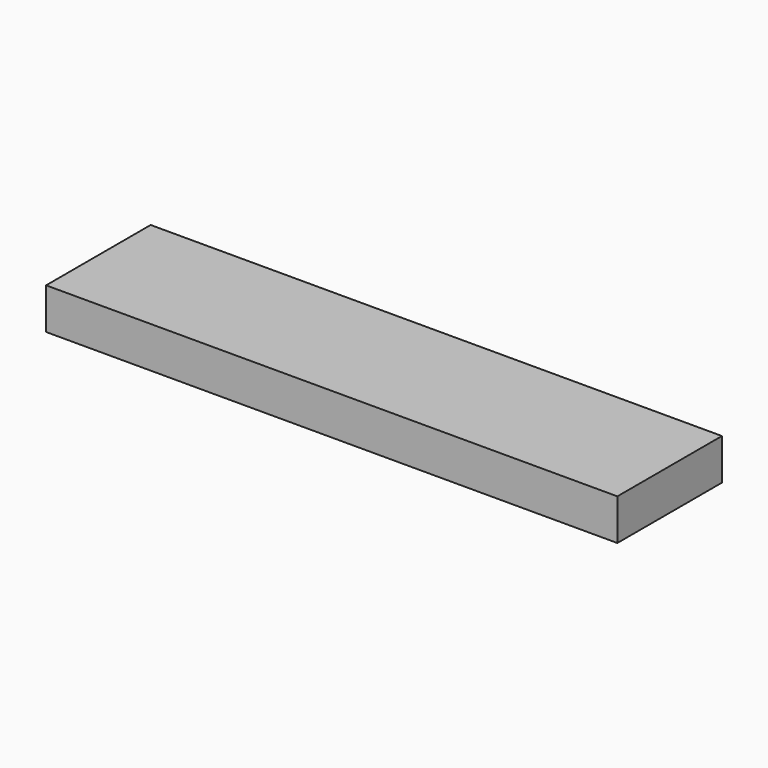
from build123d import *

# Parameters (mm, degrees)
BOX_W     = 848
BOX_H     = 194
BOX_DEPTH = 61


with BuildPart() as part:
    # Box → Box (new body)
    with BuildSketch(Plane.XY):
        with Locations((424, 97)):
            Rectangle(BOX_W, BOX_H)
    extrude(amount=BOX_DEPTH)


solid = part.part
